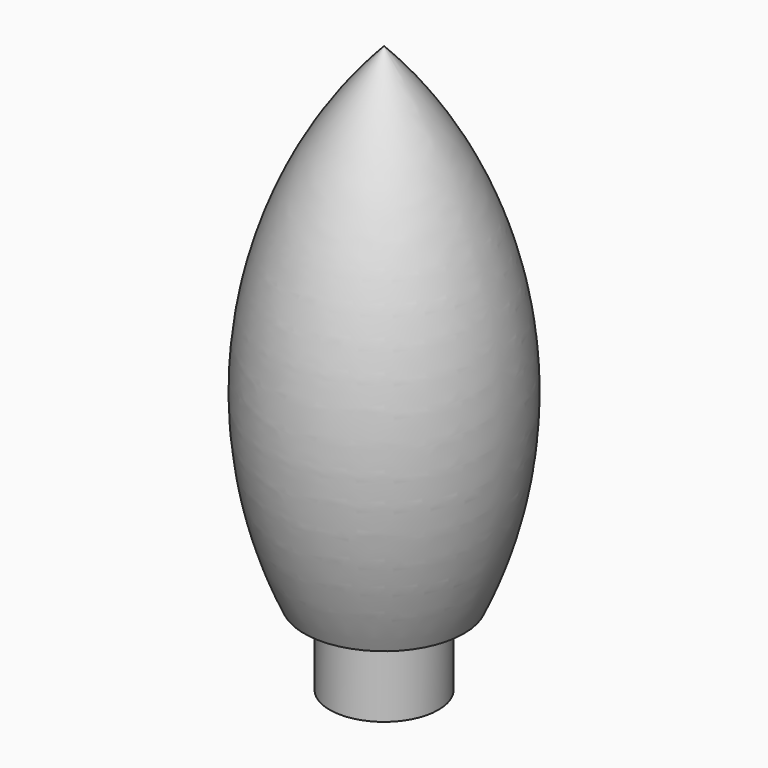
from build123d import *


with BuildPart() as f1:
    # F0 (on Front) → F1 (revolve)
    with BuildSketch(Plane.XZ):
        with BuildLine():
            Line((6.35, 14.886044), (6.35, 0))
            Line((6.35, 0), (8.89, 0))
            Line((8.89, 0), (8.89, 12.346044))
            Line((8.89, 12.346044), (13.067259, 12.346044))
            ThreePointArc((13.067259, 12.346044), (18.920996, 54.521299), (0, 92.665947))
            Line((0, 92.665947), (0, 88.9))
            ThreePointArc((0, 88.9), (16.501891, 53.558845), (11.43, 14.886044))
            Line((11.43, 14.886044), (6.35, 14.886044))
        make_face()
    revolve(axis=Axis((0, 0, 44.45), (0, 0, 1)))


solid = f1.part
